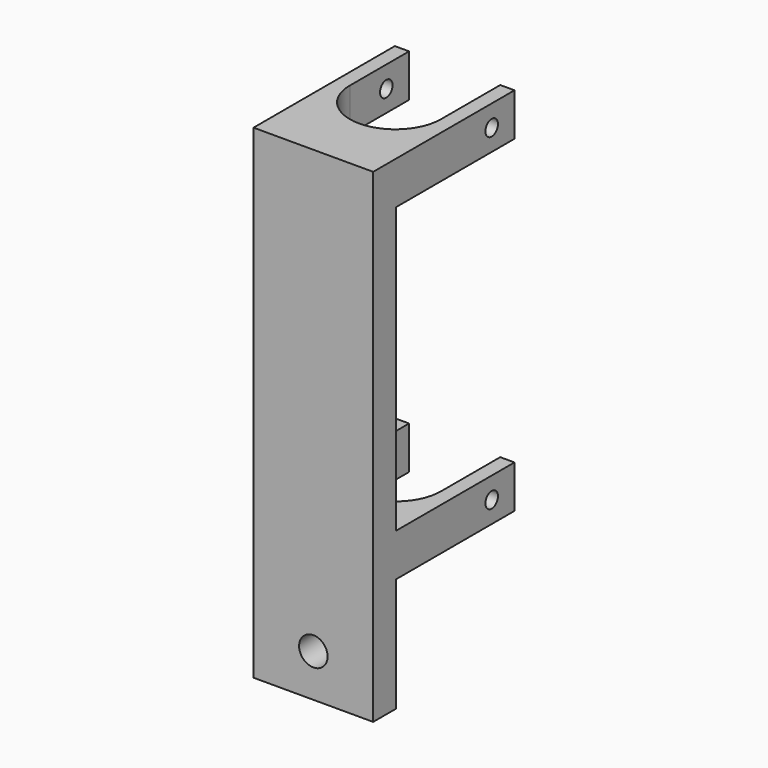
from build123d import *

# Parameters (mm, degrees)
F0_W      = 42
F0_H      = 52
F1_DEPTH  = 15
F3_DEPTH  = 50
F4_W      = 42
F4_H      = 10
F5_DEPTH  = 100
F6_W      = 42
F6_H      = 52
F7_DEPTH  = 15
F8_DEPTH  = 200
F9_W      = 42
F9_H      = 10
F10_DEPTH = 170
F11_R     = 5
F12_DEPTH = 25
F13_R     = 2.75
F14_DEPTH = 100
F15_W     = 10
F15_H     = 100
F16_DEPTH = 60


with BuildPart() as f1:
    # F0 (on Top) → F1 (new body)
    with BuildSketch(Plane.XY):
        Rectangle(F0_W, F0_H)
    extrude(amount=F1_DEPTH)

    # F2 (on face) → F3 (cut)
    with BuildSketch(Plane.XY.offset(15)):
        with BuildLine():
            Line((-16, 26), (-16, 0))
            ThreePointArc((-16, 0), (0, -16), (16, 0))
            Line((16, 0), (16, 26))
            Line((16, 26), (-16, 26))
        make_face()
    extrude(amount=-F3_DEPTH, mode=Mode.SUBTRACT)

    # F4 (on face) → F5 (join)
    with BuildSketch(Plane.XY.offset(15)):
        with Locations((0, -21)):
            Rectangle(F4_W, F4_H)
    extrude(amount=F5_DEPTH)

    # F6 (on face) → F7 (join)
    with BuildSketch(Plane.XY.offset(115)):
        Rectangle(F6_W, F6_H)
    extrude(amount=F7_DEPTH)

    # F2 (on face) → F8 (cut)
    with BuildSketch(Plane.XY.offset(15)):
        with BuildLine():
            Line((-16, 26), (-16, 0))
            ThreePointArc((-16, 0), (0, -16), (16, 0))
            Line((16, 0), (16, 26))
            Line((16, 26), (-16, 26))
        make_face()
    extrude(amount=F8_DEPTH, mode=Mode.SUBTRACT)

    # F9 (on face) → F10 (join)
    with BuildSketch(Plane.XY.offset(130)):
        with Locations((0, -31)):
            Rectangle(F9_W, F9_H)
    extrude(amount=-F10_DEPTH)

    # F11 (on face) → F12 (cut)
    with BuildSketch(Plane(origin=(0, -26, 0), x_dir=(-1, 0, 0), z_dir=(0, 1, 0))):
        with Locations((0, -25)):
            Circle(F11_R)
    extrude(amount=-F12_DEPTH, mode=Mode.SUBTRACT)

    # F13 (on face) → F14 (cut, symmetric)
    with BuildSketch(Plane(origin=(-21, 0, 0), x_dir=(0, -1, 0), z_dir=(-1, 0, 0))):
        with Locations((-16, 122.5)):
            Circle(F13_R)
        with Locations((-16, 7.5)):
            Circle(F13_R)
    extrude(amount=F14_DEPTH, both=True, mode=Mode.SUBTRACT)

    # F15 (on face) → F16 (cut)
    with BuildSketch(Plane.YZ.offset(21)):
        with Locations((-21, 65)):
            Rectangle(F15_W, F15_H)
    extrude(amount=-F16_DEPTH, mode=Mode.SUBTRACT)


solid = f1.part
